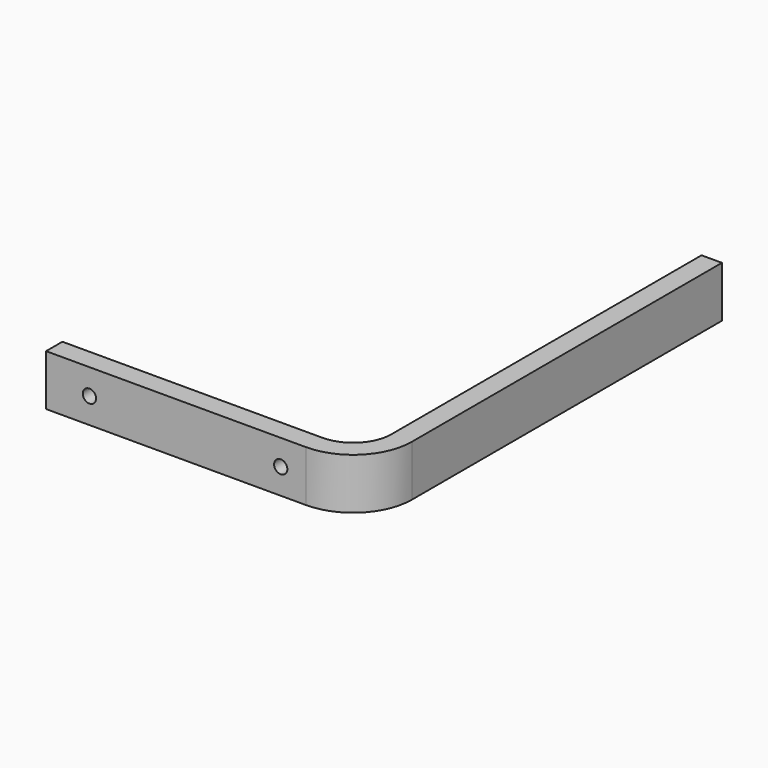
from build123d import *

# Parameters (mm, degrees)
PAD_DEPTH    = 10
SKETCH001_R  = 2.6
POCKET_DEPTH = 175.001


with BuildPart() as part:
    # Sketch → Pad (new body, symmetric)
    with BuildSketch(Plane.XY):
        with BuildLine():
            Line((0, 175), (-8, 175))
            Line((-8, 175), (-8, 23))
            ThreePointArc((-23, 8), (-12.393398, 12.393398), (-8, 23))
            Line((-23, 8), (-125, 8))
            Line((-125, 8), (-125, 0))
            Line((-125, 0), (-23, 0))
            ThreePointArc((-23, 0), (-6.736544, 6.736544), (0, 23))
            Line((0, 23), (0, 175))
        make_face()
    extrude(amount=PAD_DEPTH, both=True)

    # Sketch001 → Pocket (cut, through all)
    with BuildSketch(Plane.XZ):
        with Locations((-108, 0)):
            Circle(SKETCH001_R)
        with Locations((-33, 0)):
            Circle(SKETCH001_R)
    extrude(amount=-POCKET_DEPTH, mode=Mode.SUBTRACT)


solid = part.part
